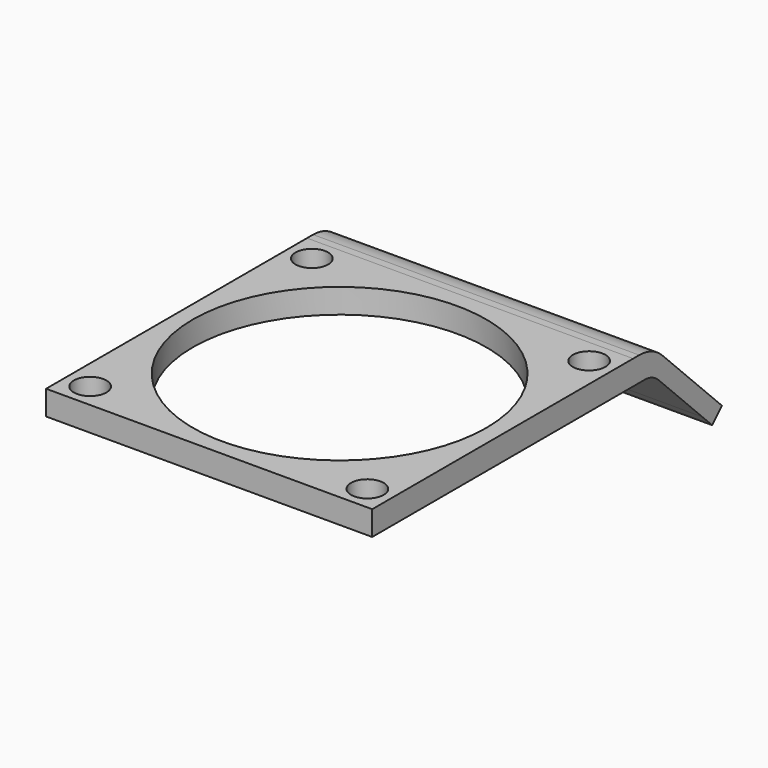
from build123d import *

# Parameters (mm, degrees)
F0_W      = 40
F0_H      = 40
F1_DEPTH  = 3
F2_R      = 18
F3_DEPTH  = 3.001
F4_R      = 2
F5_DEPTH  = 3.001
F7_DEPTH  = 40
F8_R      = 5
F9_R      = 2.5
F10_DEPTH = 38.969286
F11_R     = 3


with BuildPart() as f1:
    # F0 (on Top) → F1 (new body)
    with BuildSketch(Plane.XY):
        with Locations((20, 20)):
            Rectangle(F0_W, F0_H)
    extrude(amount=F1_DEPTH)

    # F2 (on face) → F3 (cut, through all)
    with BuildSketch(Plane.XY.offset(3)):
        with Locations((20, 20)):
            Circle(F2_R)
    extrude(amount=-F3_DEPTH, mode=Mode.SUBTRACT)

    # F4 (on face) → F5 (cut, through all)
    with BuildSketch(Plane.XY.offset(3)):
        with Locations((3, 37)):
            Circle(F4_R)
        with Locations((3, 3)):
            Circle(F4_R)
        with Locations((37, 37)):
            Circle(F4_R)
        with Locations((37, 3)):
            Circle(F4_R)
    extrude(amount=-F5_DEPTH, mode=Mode.SUBTRACT)

    # F6 (on face) → F7 (join)
    with BuildSketch(Plane.YZ.offset(40)):
        Polygon((43.002259, 2.997741), (40, 3), (43, 0), (50.608861, -7.608861), (53.608861, -7.608861), align=None)
        Polygon((43, 0), (40, 3), (40, 0), align=None)
        Polygon((52.108244, -9.109478), (53.608861, -7.608861), (50.608861, -7.608861), align=None)
    extrude(amount=-F7_DEPTH)

    # F8
    f8_edges = [f1.edges().sort_by_distance(p)[0] for p in [
        (20, 43.002259, 2.997741),
    ]]
    fillet(f8_edges, radius=F8_R)

    # F9 (on face) → F10 (cut, through all)
    with BuildSketch(Plane(origin=(0, 23, 23), x_dir=(1, 0, 0), z_dir=(0, 0.707107, 0.707107))):
        with Locations((30, 36.787466)):
            Circle(F9_R)
        with Locations((10, 36.787466)):
            Circle(F9_R)
    extrude(amount=-F10_DEPTH, mode=Mode.SUBTRACT)

    # F11
    f11_edges = [f1.edges().sort_by_distance(p)[0] for p in [
        (20, 43, 0),
    ]]
    fillet(f11_edges, radius=F11_R)


solid = f1.part
